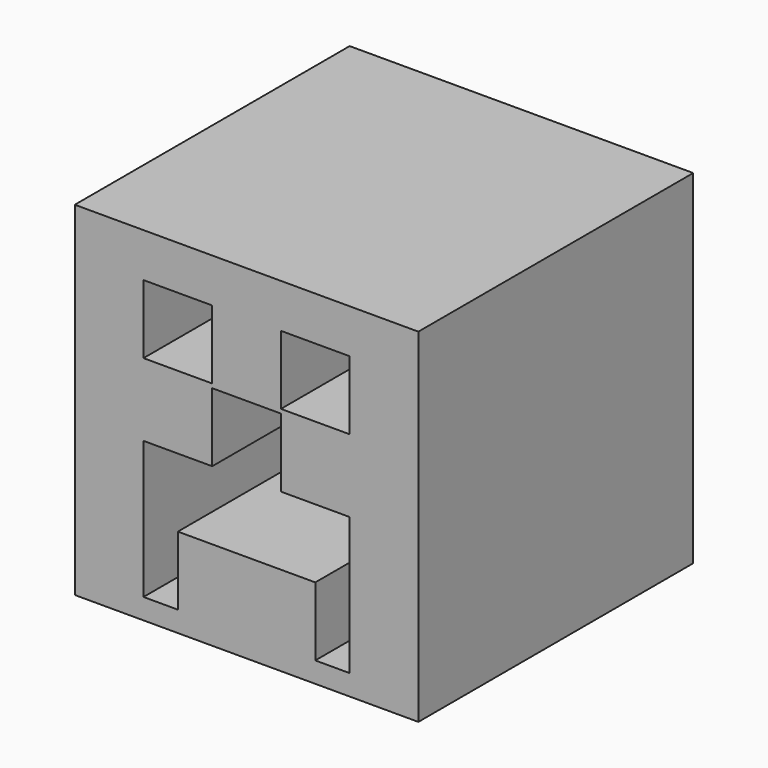
from build123d import *

# Parameters (mm, degrees)
F0_W     = 25
F0_H     = 25
F0_W_2   = 5
F0_H_2   = 5
F1_DEPTH = 12.5
F2_W     = 25
F2_H     = 25
F3_DEPTH = 12.5


with BuildPart() as f1:
    # F0 (on Front) → F1 (new body)
    with BuildSketch(Plane.XZ):
        with Locations((12.5, 12.5)):
            Rectangle(F0_W, F0_H)
        Polygon((10, 16.5), (15, 16.5), (15, 11.5), (20, 11.5), (20, 6.5), (20, 1.5), (17.5, 1.5), (17.5, 6.5), (7.5, 6.5), (7.5, 1.5), (5, 1.5), (5, 6.5), (5, 11.5), (10, 11.5), align=None, mode=Mode.SUBTRACT)
        with Locations((7.5, 19.3)):
            Rectangle(F0_W_2, F0_H_2, mode=Mode.SUBTRACT)
        with Locations((17.5, 19.3)):
            Rectangle(F0_W_2, F0_H_2, mode=Mode.SUBTRACT)
    extrude(amount=F1_DEPTH)

    # F2 (on face) → F3 (join)
    with BuildSketch(Plane(origin=(0, 0, 0), x_dir=(-1, 0, 0), z_dir=(0, 1, 0))):
        with Locations((-12.5, 12.5)):
            Rectangle(F2_W, F2_H)
    extrude(amount=F3_DEPTH)


solid = f1.part
